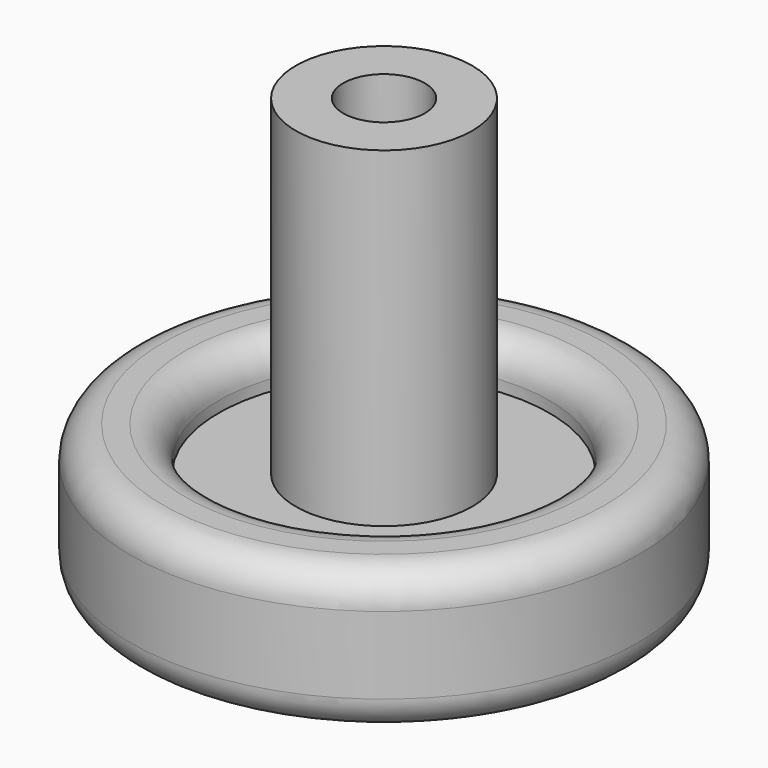
from build123d import *

# Parameters (mm, degrees)
F2_R     = 4.699
F3_DEPTH = 9.525
F4_R     = 1.5875
F5_DEPTH = 12.7


with BuildPart() as f1:
    # F0 (on Front) → F1 (revolve)
    with BuildSketch(Plane.XZ):
        with BuildLine():
            Line((0, 50.8), (0, 0))
            Line((0, 0), (3.81, 0))
            Line((3.81, 0), (10.16, 6.35))
            Line((10.16, 6.35), (19.05, 6.35))
            Line((19.05, 6.35), (19.05, 5.08))
            ThreePointArc((19.05, 5.08), (20.165923, 2.385923), (22.86, 1.27))
            Line((22.86, 1.27), (25.4, 1.27))
            ThreePointArc((25.4, 1.27), (28.094077, 2.385923), (29.21, 5.08))
            Line((29.21, 5.08), (29.21, 13.97))
            ThreePointArc((29.21, 13.97), (28.094077, 16.664077), (25.4, 17.78))
            Line((25.4, 17.78), (22.86, 17.78))
            ThreePointArc((22.86, 17.78), (20.165923, 16.664077), (19.05, 13.97))
            Line((19.05, 13.97), (19.05, 12.7))
            Line((19.05, 12.7), (10.16, 12.7))
            Line((10.16, 12.7), (10.16, 50.8))
            Line((10.16, 50.8), (0, 50.8))
        make_face()
    revolve(axis=Axis((0, 0, 25.4), (0, 0, -1)))

    # F2 (on face) → F3 (cut)
    with BuildSketch(Plane.XY.offset(50.8)):
        Circle(F2_R)
    extrude(amount=-F3_DEPTH, mode=Mode.SUBTRACT)

    # F4 (on face) → F5 (cut)
    with BuildSketch(Plane(origin=(0, 0, 0), x_dir=(1, 0, 0), z_dir=(0, 0, -1))):
        Circle(F4_R)
    extrude(amount=-F5_DEPTH, mode=Mode.SUBTRACT)


solid = f1.part
